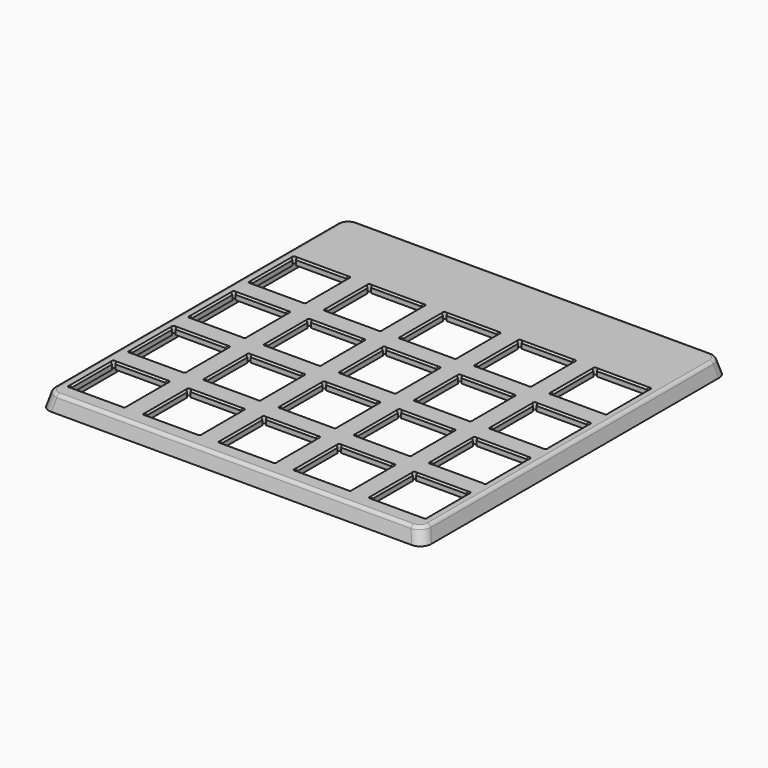
from build123d import *

# Parameters (mm, degrees)
SKETCH_W             = 101.6
SKETCH_H             = 101.35
PAD_DEPTH            = 4
SKETCH001_W          = 97
SKETCH001_H          = 96.5
POCKET_DEPTH         = 2.3
POCKET001_DEPTH      = 101.351
POCKET002_DEPTH      = 100
POCKET002_DEPTH_BACK = -100
FILLET_R             = 3
FILLET001_R          = 1
CHAMFER_SIZE         = 0.45


with BuildPart() as part:
    # Sketch → Pad (new body)
    with BuildSketch(Plane.XY):
        with Locations((0, 8.125)):
            Rectangle(SKETCH_W, SKETCH_H)
        with BuildLine():
            Line((-47.15, -3.35), (-47.15, -16.65))
            ThreePointArc((-47.15, -16.65), (-47.503553, -17.503553), (-46.65, -17.15))
            Line((-46.65, -17.15), (-33.35, -17.15))
            ThreePointArc((-33.35, -17.15), (-32.496447, -17.503553), (-32.85, -16.65))
            Line((-32.85, -16.65), (-32.85, -3.35))
            ThreePointArc((-32.85, -3.35), (-32.496447, -2.496447), (-33.35, -2.85))
            Line((-33.35, -2.85), (-46.65, -2.85))
            ThreePointArc((-46.65, -2.85), (-47.503553, -2.496447), (-47.15, -3.35))
        make_face(mode=Mode.SUBTRACT)
        with BuildLine():
            Line((-47.15, -23.35), (-47.15, -36.65))
            ThreePointArc((-47.15, -36.65), (-47.503553, -37.503553), (-46.65, -37.15))
            Line((-46.65, -37.15), (-33.35, -37.15))
            ThreePointArc((-33.35, -37.15), (-32.496447, -37.503553), (-32.85, -36.65))
            Line((-32.85, -36.65), (-32.85, -23.35))
            ThreePointArc((-32.85, -23.35), (-32.496447, -22.496447), (-33.35, -22.85))
            Line((-33.35, -22.85), (-46.65, -22.85))
            ThreePointArc((-46.65, -22.85), (-47.503553, -22.496447), (-47.15, -23.35))
        make_face(mode=Mode.SUBTRACT)
        with BuildLine():
            Line((-47.15, 36.65), (-47.15, 23.35))
            ThreePointArc((-47.15, 23.35), (-47.503553, 22.496447), (-46.65, 22.85))
            Line((-46.65, 22.85), (-33.35, 22.85))
            ThreePointArc((-33.35, 22.85), (-32.496447, 22.496447), (-32.85, 23.35))
            Line((-32.85, 23.35), (-32.85, 36.65))
            ThreePointArc((-32.85, 36.65), (-32.496447, 37.503553), (-33.35, 37.15))
            Line((-33.35, 37.15), (-46.65, 37.15))
            ThreePointArc((-46.65, 37.15), (-47.503553, 37.503553), (-47.15, 36.65))
        make_face(mode=Mode.SUBTRACT)
        with BuildLine():
            Line((-47.15, 16.65), (-47.15, 3.35))
            ThreePointArc((-47.15, 3.35), (-47.503553, 2.496447), (-46.65, 2.85))
            Line((-46.65, 2.85), (-33.35, 2.85))
            ThreePointArc((-33.35, 2.85), (-32.496447, 2.496447), (-32.85, 3.35))
            Line((-32.85, 3.35), (-32.85, 16.65))
            ThreePointArc((-32.85, 16.65), (-32.496447, 17.503553), (-33.35, 17.15))
            Line((-33.35, 17.15), (-46.65, 17.15))
            ThreePointArc((-46.65, 17.15), (-47.503553, 17.503553), (-47.15, 16.65))
        make_face(mode=Mode.SUBTRACT)
        with BuildLine():
            Line((-27.15, -3.35), (-27.15, -16.65))
            ThreePointArc((-27.15, -16.65), (-27.503553, -17.503553), (-26.65, -17.15))
            Line((-26.65, -17.15), (-13.35, -17.15))
            ThreePointArc((-13.35, -17.15), (-12.496447, -17.503553), (-12.85, -16.65))
            Line((-12.85, -16.65), (-12.85, -3.35))
            ThreePointArc((-12.85, -3.35), (-12.496447, -2.496447), (-13.35, -2.85))
            Line((-13.35, -2.85), (-26.65, -2.85))
            ThreePointArc((-26.65, -2.85), (-27.503553, -2.496447), (-27.15, -3.35))
        make_face(mode=Mode.SUBTRACT)
        with BuildLine():
            Line((-27.15, -23.35), (-27.15, -36.65))
            ThreePointArc((-27.15, -36.65), (-27.503553, -37.503553), (-26.65, -37.15))
            Line((-26.65, -37.15), (-13.35, -37.15))
            ThreePointArc((-13.35, -37.15), (-12.496447, -37.503553), (-12.85, -36.65))
            Line((-12.85, -36.65), (-12.85, -23.35))
            ThreePointArc((-12.85, -23.35), (-12.496447, -22.496447), (-13.35, -22.85))
            Line((-13.35, -22.85), (-26.65, -22.85))
            ThreePointArc((-26.65, -22.85), (-27.503553, -22.496447), (-27.15, -23.35))
        make_face(mode=Mode.SUBTRACT)
        with BuildLine():
            Line((-27.15, 36.65), (-27.15, 23.35))
            ThreePointArc((-27.15, 23.35), (-27.503553, 22.496447), (-26.65, 22.85))
            Line((-26.65, 22.85), (-13.35, 22.85))
            ThreePointArc((-13.35, 22.85), (-12.496447, 22.496447), (-12.85, 23.35))
            Line((-12.85, 23.35), (-12.85, 36.65))
            ThreePointArc((-12.85, 36.65), (-12.496447, 37.503553), (-13.35, 37.15))
            Line((-13.35, 37.15), (-26.65, 37.15))
            ThreePointArc((-26.65, 37.15), (-27.503553, 37.503553), (-27.15, 36.65))
        make_face(mode=Mode.SUBTRACT)
        with BuildLine():
            Line((-27.15, 16.65), (-27.15, 3.35))
            ThreePointArc((-27.15, 3.35), (-27.503553, 2.496447), (-26.65, 2.85))
            Line((-26.65, 2.85), (-13.35, 2.85))
            ThreePointArc((-13.35, 2.85), (-12.496447, 2.496447), (-12.85, 3.35))
            Line((-12.85, 3.35), (-12.85, 16.65))
            ThreePointArc((-12.85, 16.65), (-12.496447, 17.503553), (-13.35, 17.15))
            Line((-13.35, 17.15), (-26.65, 17.15))
            ThreePointArc((-26.65, 17.15), (-27.503553, 17.503553), (-27.15, 16.65))
        make_face(mode=Mode.SUBTRACT)
        with BuildLine():
            Line((-7.15, -3.35), (-7.15, -16.65))
            ThreePointArc((-7.15, -16.65), (-7.503553, -17.503553), (-6.65, -17.15))
            Line((-6.65, -17.15), (6.65, -17.15))
            ThreePointArc((6.65, -17.15), (7.503553, -17.503553), (7.15, -16.65))
            Line((7.15, -16.65), (7.15, -3.35))
            ThreePointArc((7.15, -3.35), (7.503553, -2.496447), (6.65, -2.85))
            Line((6.65, -2.85), (-6.65, -2.85))
            ThreePointArc((-6.65, -2.85), (-7.503553, -2.496447), (-7.15, -3.35))
        make_face(mode=Mode.SUBTRACT)
        with BuildLine():
            Line((-7.15, -23.35), (-7.15, -36.65))
            ThreePointArc((-7.15, -36.65), (-7.503553, -37.503553), (-6.65, -37.15))
            Line((-6.65, -37.15), (6.65, -37.15))
            ThreePointArc((6.65, -37.15), (7.503553, -37.503553), (7.15, -36.65))
            Line((7.15, -36.65), (7.15, -23.35))
            ThreePointArc((7.15, -23.35), (7.503553, -22.496447), (6.65, -22.85))
            Line((6.65, -22.85), (-6.65, -22.85))
            ThreePointArc((-6.65, -22.85), (-7.503553, -22.496447), (-7.15, -23.35))
        make_face(mode=Mode.SUBTRACT)
        with BuildLine():
            Line((-7.15, 36.65), (-7.15, 23.35))
            ThreePointArc((-7.15, 23.35), (-7.503553, 22.496447), (-6.65, 22.85))
            Line((-6.65, 22.85), (6.65, 22.85))
            ThreePointArc((6.65, 22.85), (7.503553, 22.496447), (7.15, 23.35))
            Line((7.15, 23.35), (7.15, 36.65))
            ThreePointArc((7.15, 36.65), (7.503553, 37.503553), (6.65, 37.15))
            Line((6.65, 37.15), (-6.65, 37.15))
            ThreePointArc((-6.65, 37.15), (-7.503553, 37.503553), (-7.15, 36.65))
        make_face(mode=Mode.SUBTRACT)
        with BuildLine():
            Line((-7.15, 16.65), (-7.15, 3.35))
            ThreePointArc((-7.15, 3.35), (-7.503553, 2.496447), (-6.65, 2.85))
            Line((-6.65, 2.85), (6.65, 2.85))
            ThreePointArc((6.65, 2.85), (7.503553, 2.496447), (7.15, 3.35))
            Line((7.15, 3.35), (7.15, 16.65))
            ThreePointArc((7.15, 16.65), (7.503553, 17.503553), (6.65, 17.15))
            Line((6.65, 17.15), (-6.65, 17.15))
            ThreePointArc((-6.65, 17.15), (-7.503553, 17.503553), (-7.15, 16.65))
        make_face(mode=Mode.SUBTRACT)
        with BuildLine():
            Line((12.85, -3.35), (12.85, -16.65))
            ThreePointArc((12.85, -16.65), (12.496447, -17.503553), (13.35, -17.15))
            Line((13.35, -17.15), (26.65, -17.15))
            ThreePointArc((26.65, -17.15), (27.503553, -17.503553), (27.15, -16.65))
            Line((27.15, -16.65), (27.15, -3.35))
            ThreePointArc((27.15, -3.35), (27.503553, -2.496447), (26.65, -2.85))
            Line((26.65, -2.85), (13.35, -2.85))
            ThreePointArc((13.35, -2.85), (12.496447, -2.496447), (12.85, -3.35))
        make_face(mode=Mode.SUBTRACT)
        with BuildLine():
            Line((12.85, -23.35), (12.85, -36.65))
            ThreePointArc((12.85, -36.65), (12.496447, -37.503553), (13.35, -37.15))
            Line((13.35, -37.15), (26.65, -37.15))
            ThreePointArc((26.65, -37.15), (27.503553, -37.503553), (27.15, -36.65))
            Line((27.15, -36.65), (27.15, -23.35))
            ThreePointArc((27.15, -23.35), (27.503553, -22.496447), (26.65, -22.85))
            Line((26.65, -22.85), (13.35, -22.85))
            ThreePointArc((13.35, -22.85), (12.496447, -22.496447), (12.85, -23.35))
        make_face(mode=Mode.SUBTRACT)
        with BuildLine():
            Line((12.85, 36.65), (12.85, 23.35))
            ThreePointArc((12.85, 23.35), (12.496447, 22.496447), (13.35, 22.85))
            Line((13.35, 22.85), (26.65, 22.85))
            ThreePointArc((26.65, 22.85), (27.503553, 22.496447), (27.15, 23.35))
            Line((27.15, 23.35), (27.15, 36.65))
            ThreePointArc((27.15, 36.65), (27.503553, 37.503553), (26.65, 37.15))
            Line((26.65, 37.15), (13.35, 37.15))
            ThreePointArc((13.35, 37.15), (12.496447, 37.503553), (12.85, 36.65))
        make_face(mode=Mode.SUBTRACT)
        with BuildLine():
            Line((12.85, 16.65), (12.85, 3.35))
            ThreePointArc((12.85, 3.35), (12.496447, 2.496447), (13.35, 2.85))
            Line((13.35, 2.85), (26.65, 2.85))
            ThreePointArc((26.65, 2.85), (27.503553, 2.496447), (27.15, 3.35))
            Line((27.15, 3.35), (27.15, 16.65))
            ThreePointArc((27.15, 16.65), (27.503553, 17.503553), (26.65, 17.15))
            Line((26.65, 17.15), (13.35, 17.15))
            ThreePointArc((13.35, 17.15), (12.496447, 17.503553), (12.85, 16.65))
        make_face(mode=Mode.SUBTRACT)
        with BuildLine():
            Line((32.85, -3.352169), (32.85, -16.647831))
            ThreePointArc((32.85, -16.647831), (32.494913, -17.505087), (33.352169, -17.15))
            Line((33.352169, -17.15), (46.647831, -17.15))
            ThreePointArc((46.647831, -17.15), (47.505087, -17.505087), (47.15, -16.647831))
            Line((47.15, -16.647831), (47.15, -3.352169))
            ThreePointArc((47.15, -3.352169), (47.505087, -2.494913), (46.647831, -2.85))
            Line((46.647831, -2.85), (33.352169, -2.85))
            ThreePointArc((33.352169, -2.85), (32.494913, -2.494913), (32.85, -3.352169))
        make_face(mode=Mode.SUBTRACT)
        with BuildLine():
            Line((32.85, -23.352169), (32.85, -36.647831))
            ThreePointArc((32.85, -36.647831), (32.494913, -37.505087), (33.352169, -37.15))
            Line((33.352169, -37.15), (46.647831, -37.15))
            ThreePointArc((46.647831, -37.15), (47.505087, -37.505087), (47.15, -36.647831))
            Line((47.15, -36.647831), (47.15, -23.352169))
            ThreePointArc((47.15, -23.352169), (47.505087, -22.494913), (46.647831, -22.85))
            Line((46.647831, -22.85), (33.352169, -22.85))
            ThreePointArc((33.352169, -22.85), (32.494913, -22.494913), (32.85, -23.352169))
        make_face(mode=Mode.SUBTRACT)
        with BuildLine():
            Line((32.85, 36.647831), (32.85, 23.352169))
            ThreePointArc((32.85, 23.352169), (32.494913, 22.494913), (33.352169, 22.85))
            Line((33.352169, 22.85), (46.647831, 22.85))
            ThreePointArc((46.647831, 22.85), (47.505087, 22.494913), (47.15, 23.352169))
            Line((47.15, 23.352169), (47.15, 36.647831))
            ThreePointArc((47.15, 36.647831), (47.505087, 37.505087), (46.647831, 37.15))
            Line((46.647831, 37.15), (33.352169, 37.15))
            ThreePointArc((33.352169, 37.15), (32.494913, 37.505087), (32.85, 36.647831))
        make_face(mode=Mode.SUBTRACT)
        with BuildLine():
            Line((32.85, 16.647831), (32.85, 3.352169))
            ThreePointArc((32.85, 3.352169), (32.494913, 2.494913), (33.352169, 2.85))
            Line((33.352169, 2.85), (46.647831, 2.85))
            ThreePointArc((46.647831, 2.85), (47.505087, 2.494913), (47.15, 3.352169))
            Line((47.15, 3.352169), (47.15, 16.647831))
            ThreePointArc((47.15, 16.647831), (47.505087, 17.505087), (46.647831, 17.15))
            Line((46.647831, 17.15), (33.352169, 17.15))
            ThreePointArc((33.352169, 17.15), (32.494913, 17.505087), (32.85, 16.647831))
        make_face(mode=Mode.SUBTRACT)
    extrude(amount=PAD_DEPTH)

    # Sketch001 (on Face165 of Pad) → Pocket (cut)
    with BuildSketch(Plane(origin=(0, 0, 0), x_dir=(1, 0, 0), z_dir=(0, 0, -1))):
        with Locations((0, -8.1)):
            Rectangle(SKETCH001_W, SKETCH001_H)
    extrude(amount=-POCKET_DEPTH, mode=Mode.SUBTRACT)

    # Sketch002 (on Face3 of Pocket) → Pocket001 (cut, through all)
    with BuildSketch(Plane.XZ.offset(42.55)):
        Polygon((-50.8, 0), (-49.8, 4), (-50.8, 4), align=None)
        Polygon((50.8, 0), (49.8, 4), (50.8, 4), align=None)
    extrude(amount=-POCKET001_DEPTH, mode=Mode.SUBTRACT)

    # Sketch003 (on Face113 of Pocket001) → Pocket002 (cut, two sides)
    with BuildSketch(Plane(origin=(-32.85, 0, 0), x_dir=(0, -1, 0), z_dir=(-1, 0, 0))) as pocket002_sk:
        Polygon((-58.8, 0), (-57.8, 4), (-58.8, 4), align=None)
        Polygon((42.55, 4), (41.55, 4), (42.55, 0), align=None)
    extrude(amount=-POCKET002_DEPTH, mode=Mode.SUBTRACT)
    extrude(pocket002_sk.sketch, amount=-POCKET002_DEPTH_BACK, mode=Mode.SUBTRACT)

    # Fillet
    fillet_edges = [part.edges().sort_by_distance(p)[0] for p in [
        (50.3, 58.3, 2),
        (50.3, -42.05, 2),
        (-50.3, 58.3, 2),
        (-50.3, -42.05, 2),
    ]]
    fillet(fillet_edges, radius=FILLET_R)

    # Fillet001
    fillet001_edges = [part.edges().sort_by_distance(p)[0] for p in [
        (-49.8, 8.125, 4),
    ]]
    fillet(fillet001_edges, radius=FILLET001_R)

    # Chamfer
    chamfer_edges = [part.edges().sort_by_distance(p)[0] for p in [
        (20, 37.15, 4),
        (27.15, 30, 4),
        (20, 22.85, 4),
        (12.85, 30, 4),
        (7.15, 30, 4),
        (0, 22.85, 4),
        (-7.15, 30, 4),
        (0, 37.15, 4),
        (-20, 37.15, 4),
        (-12.85, 30, 4),
        (-20, 22.85, 4),
        (-27.15, 30, 4),
        (-40, 37.15, 4),
        (-32.85, 30, 4),
        (-40, 22.85, 4),
        (-47.15, 30, 4),
        (-40, 17.15, 4),
        (-32.85, 10, 4),
        (-40, 2.85, 4),
        (-47.15, 10, 4),
        (-27.15, 10, 4),
        (-20, 2.85, 4),
        (-12.85, 10, 4),
        (-20, 17.15, 4),
        (-7.15, 10, 4),
        (0, 17.15, 4),
        (7.15, 10, 4),
        (0, 2.85, 4),
        (20, 2.85, 4),
        (12.85, 10, 4),
        (20, 17.15, 4),
        (27.15, 10, 4),
        (32.85, 10, 4),
        (40, 17.15, 4),
        (47.15, 10, 4),
        (40, 2.85, 4),
        (40, -2.85, 4),
        (47.15, -10, 4),
        (40, -17.15, 4),
        (32.85, -10, 4),
        (20, -2.85, 4),
        (27.15, -10, 4),
        (20, -17.15, 4),
        (12.85, -10, 4),
        (0, -2.85, 4),
        (7.15, -10, 4),
        (0, -17.15, 4),
        (-7.15, -10, 4),
        (-20, -2.85, 4),
        (-12.85, -10, 4),
        (-20, -17.15, 4),
        (-27.15, -10, 4),
        (-40, -2.85, 4),
        (-32.85, -10, 4),
        (-40, -17.15, 4),
        (-47.15, -10, 4),
        (-40, -22.85, 4),
        (-32.85, -30, 4),
        (-40, -37.15, 4),
        (-47.15, -30, 4),
        (-20, -22.85, 4),
        (-12.85, -30, 4),
        (-20, -37.15, 4),
        (-27.15, -30, 4),
        (-7.15, -30, 4),
        (0, -22.85, 4),
        (7.15, -30, 4),
        (0, -37.15, 4),
        (12.85, -30, 4),
        (20, -22.85, 4),
        (27.15, -30, 4),
        (20, -37.15, 4),
        (32.85, -30, 4),
        (40, -22.85, 4),
        (47.15, -30, 4),
        (40, -37.15, 4),
        (40, 37.15, 4),
        (47.15, 30, 4),
        (40, 22.85, 4),
        (32.85, 30, 4),
    ]]
    chamfer(chamfer_edges, length=CHAMFER_SIZE)


solid = part.part
